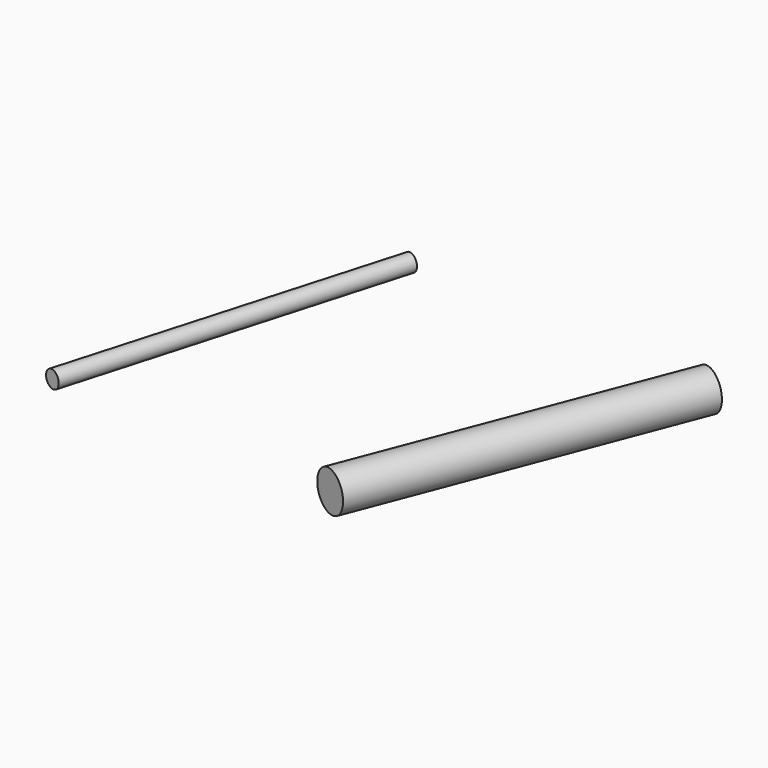
from build123d import *

# Parameters (mm, degrees)
F7_W = 9144
F7_H = 533.4
F5_W = 9144
F5_H = 228.6


with BuildPart() as f8:
    # F7 (on line) → F8 (revolve)
    with BuildSketch(Plane(origin=(12562.6186806324, -4842.4736814365, 0), x_dir=(0.359671124, 0.9330791406, 0), z_dir=(0.9330791406, -0.359671124, 0))):
        with Locations((5189.7780915416, 998.22)):
            Rectangle(F7_W, F7_H)
    revolve(axis=Axis((14429.232, 0, 731.52), (0.359671124, 0.9330791406, 0)))


with BuildPart() as f9:
    # F5 (on line) → F9 (revolve)
    with BuildSketch(Plane(origin=(6220.8660296295, -1795.560716302, 0), x_dir=(0.2773146533, 0.9607791542, 0), z_dir=(0.9607791542, -0.2773146533, 0))):
        with Locations((1868.8589448803, 1156.716)):
            Rectangle(F5_W, F5_H)
    revolve(axis=Axis((6739.128, 0, 1042.416), (0.2773146533, 0.9607791542, 0)))


solid = Compound([f8.part, f9.part])
